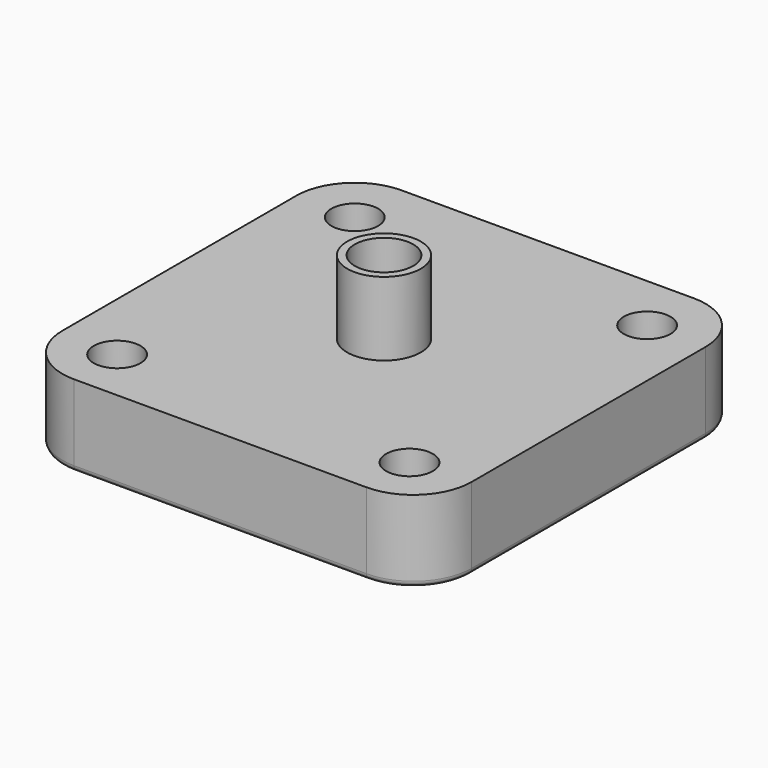
from build123d import *

# Parameters (mm, degrees)
F0_W     = 35
F0_H     = 35
F1_DEPTH = 3.5
F2_R     = 2
F3_DEPTH = 7.001
F4_R     = 5
F5_R     = 3.15
F6_DEPTH = 6.3
F7_R     = 2.5
F8_DEPTH = 13.301
F9_SIZE  = 1.4
F10_R    = 0.5


with BuildPart() as f1:
    # F0 (on Top) → F1 (new body, symmetric)
    with BuildSketch(Plane.XY):
        Rectangle(F0_W, F0_H)
    extrude(amount=F1_DEPTH, both=True)

    # F2 (on face) → F3 (cut, through all)
    with BuildSketch(Plane.XY.offset(3.5)):
        with Locations((-12.5, -12.9)):
            Circle(F2_R)
        with Locations((-12.5, 12.5)):
            Circle(F2_R)
        with Locations((12.5, 12.5)):
            Circle(F2_R)
        with Locations((12.5, -12.9)):
            Circle(F2_R)
    extrude(amount=-F3_DEPTH, mode=Mode.SUBTRACT)

    # F4
    f4_edges = [f1.edges().sort_by_distance(p)[0] for p in [
        (-17.5, 17.5, 0),
        (17.5, 17.5, 0),
        (17.5, -17.5, 0),
        (-17.5, -17.5, 0),
    ]]
    fillet(f4_edges, radius=F4_R)

    # F5 (on face) → F6 (join)
    with BuildSketch(Plane.XY.offset(3.5)):
        Circle(F5_R)
    extrude(amount=F6_DEPTH)

    # F7 (on face) → F8 (cut, through all)
    with BuildSketch(Plane.XY.offset(9.8)):
        Circle(F7_R)
    extrude(amount=-F8_DEPTH, mode=Mode.SUBTRACT)

    # F9
    f9_edges = [f1.edges().sort_by_distance(p)[0] for p in [
        (-14.5, -12.9, -3.5),
        (10.5, -12.9, -3.5),
        (10.5, 12.5, -3.5),
        (-14.5, 12.5, -3.5),
    ]]
    chamfer(f9_edges, length=F9_SIZE)

    # F10
    f10_edges = [f1.edges().sort_by_distance(p)[0] for p in [
        (-15.9, -12.9, -3.5),
        (-17.5, 0, -3.5),
    ]]
    fillet(f10_edges, radius=F10_R)


solid = f1.part
